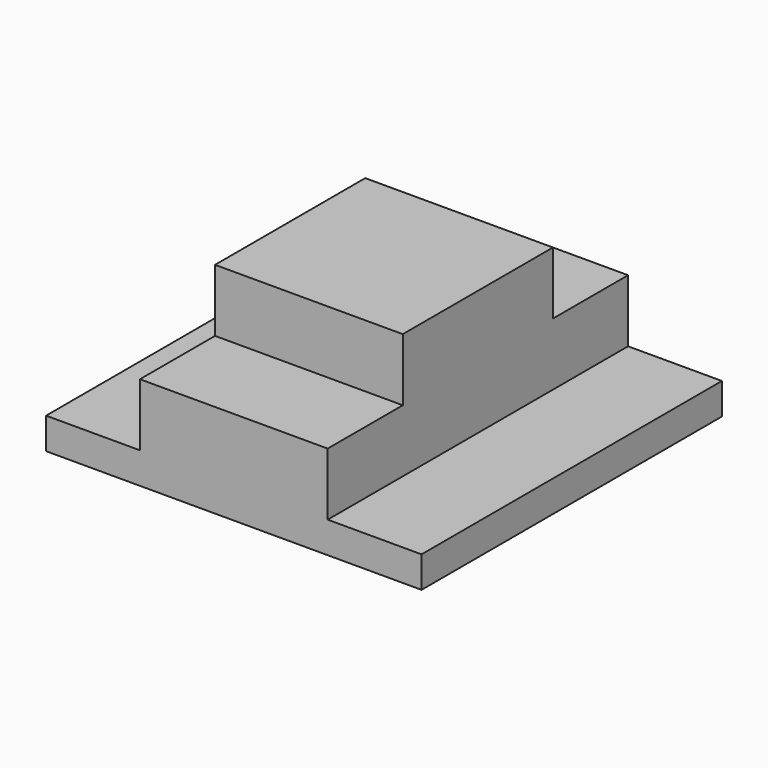
from build123d import *

# Parameters (mm, degrees)
F0_W     = 304.8
F0_H     = 609.6
F1_DEPTH = 101.6
F2_W     = 609.6
F2_H     = 609.6
F3_DEPTH = 50.8
F4_W     = 304.8
F4_H     = 304.8
F5_DEPTH = 101.6


with BuildPart() as f1:
    # F0 (on Top) → F1 (new body)
    with BuildSketch(Plane.XY):
        Rectangle(F0_W, F0_H)
    extrude(amount=F1_DEPTH)

    # F2 (on Top) → F3 (join)
    with BuildSketch(Plane.XY):
        Rectangle(F2_W, F2_H)
    extrude(amount=-F3_DEPTH)

    # F4 (on face) → F5 (join)
    with BuildSketch(Plane.XY.offset(101.6)):
        Rectangle(F4_W, F4_H)
    extrude(amount=F5_DEPTH)


solid = f1.part
